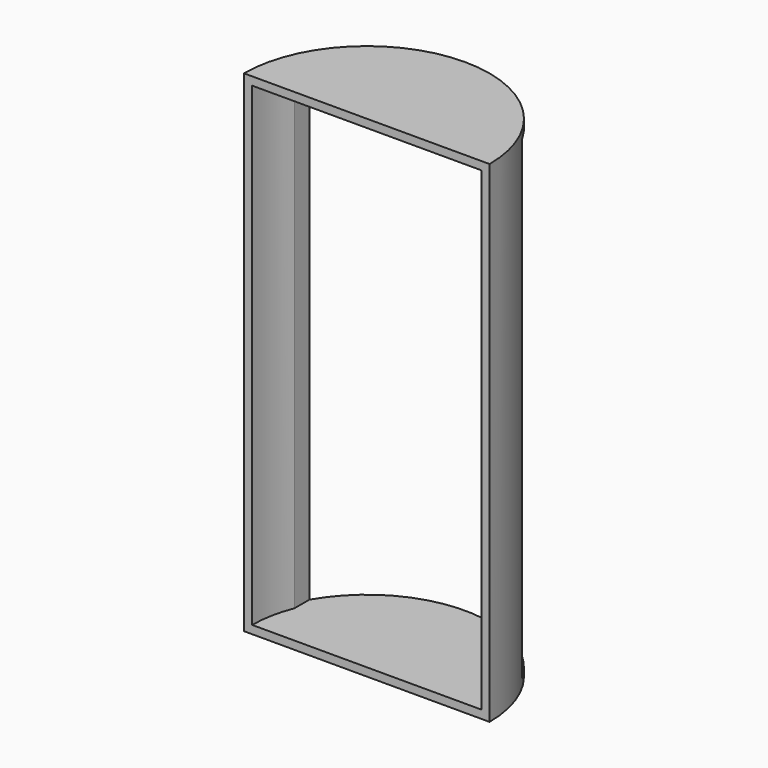
from build123d import *

# Parameters (mm, degrees)
F1_DEPTH = 60
F2_T     = -2
F3_W     = 52
F3_H     = 116
F4_DEPTH = 35


with BuildPart() as f1:
    # F0 (on Top) → F1 (new body, symmetric)
    with BuildSketch(Plane.XY):
        with BuildLine():
            Line((-30, 0), (30, 0))
            ThreePointArc((30, 0), (0, 30), (-30, 0))
        make_face()
    extrude(amount=F1_DEPTH, both=True)

    # F2
    f2_openings = [f1.faces().sort_by_distance(p)[0] for p in [
        (0, 0, 0),
    ]]
    offset(amount=F2_T, openings=f2_openings)

    # F3 (on Front) → F4 (cut)
    with BuildSketch(Plane.XZ):
        Rectangle(F3_W, F3_H)
    extrude(amount=-F4_DEPTH, mode=Mode.SUBTRACT)


solid = f1.part
